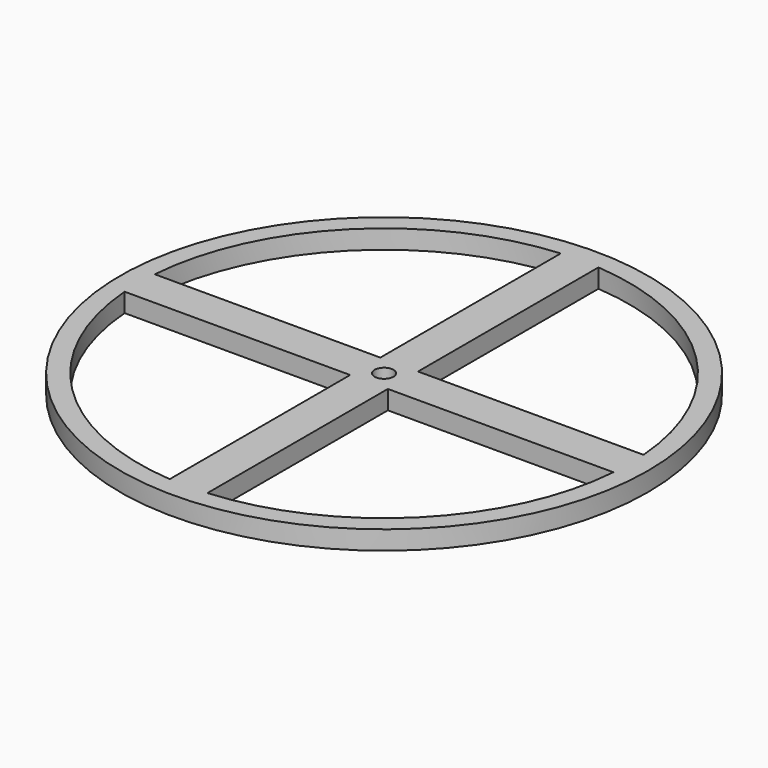
from build123d import *

# Parameters (mm, degrees)
F0_R     = 35
F0_R_2   = 1.25
F1_DEPTH = 2.5


with BuildPart() as f1:
    # F0 (on Top) → F1 (new body)
    with BuildSketch(Plane.XY):
        Circle(F0_R)
        with BuildLine():
            ThreePointArc((-2.5, -32.403703), (-22.98097, -22.98097), (-32.403703, -2.5))
            Line((-32.403703, -2.5), (-2.5, -2.5))
            Line((-2.5, -2.5), (-2.5, -32.403703))
        make_face(mode=Mode.SUBTRACT)
        with BuildLine():
            Line((2.5, -2.5), (32.403703, -2.5))
            ThreePointArc((32.403703, -2.5), (22.98097, -22.98097), (2.5, -32.403703))
            Line((2.5, -32.403703), (2.5, -2.5))
        make_face(mode=Mode.SUBTRACT)
        with BuildLine():
            ThreePointArc((-32.403703, 2.5), (-22.98097, 22.98097), (-2.5, 32.403703))
            Line((-2.5, 32.403703), (-2.5, 2.5))
            Line((-2.5, 2.5), (-32.403703, 2.5))
        make_face(mode=Mode.SUBTRACT)
        Circle(F0_R_2, mode=Mode.SUBTRACT)
        with BuildLine():
            ThreePointArc((2.5, 32.403703), (22.98097, 22.98097), (32.403703, 2.5))
            Line((32.403703, 2.5), (2.5, 2.5))
            Line((2.5, 2.5), (2.5, 32.403703))
        make_face(mode=Mode.SUBTRACT)
    extrude(amount=F1_DEPTH)


solid = f1.part
